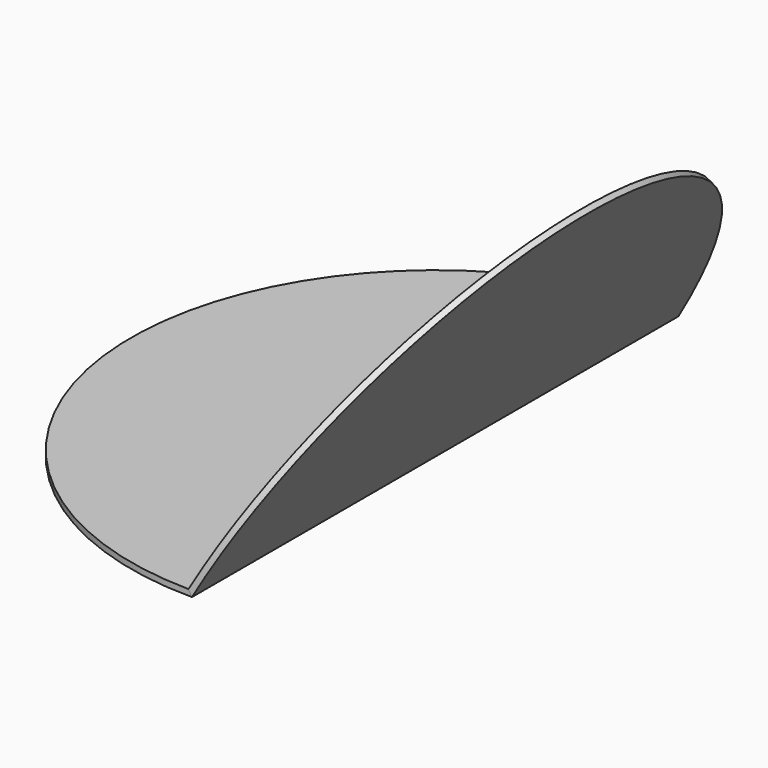
from build123d import *

# Parameters (mm, degrees)
F1_DEPTH      = 300
F1_DEPTH_BACK = 300
F2_R          = 255
F3_DEPTH      = 500
F4_R          = 255
F5_DEPTH      = 500


with BuildPart() as f1:
    # F0 (on Front) → F1 (new body, two sides)
    with BuildSketch(Plane.XZ) as f1_sk:
        Polygon((-300, 0), (0, 0), (150, 259.8076211353), (145.6698729811, 262.3076211353), (-2.8867513459, 5), (-300, 5), align=None)
    extrude(amount=F1_DEPTH)
    extrude(f1_sk.sketch, amount=-F1_DEPTH_BACK)

    # F2 (on Top) → F3 (intersect)
    with BuildSketch(Plane.XY):
        Circle(F2_R)
    extrude(amount=F3_DEPTH, mode=Mode.INTERSECT)

    # F4 (on face) → F5 (intersect)
    with BuildSketch(Plane(origin=(0, 0, 0), x_dir=(0, 1, 0), z_dir=(0.8660254038, 0, -0.5))):
        Circle(F4_R)
    extrude(amount=-F5_DEPTH, mode=Mode.INTERSECT)


solid = f1.part
